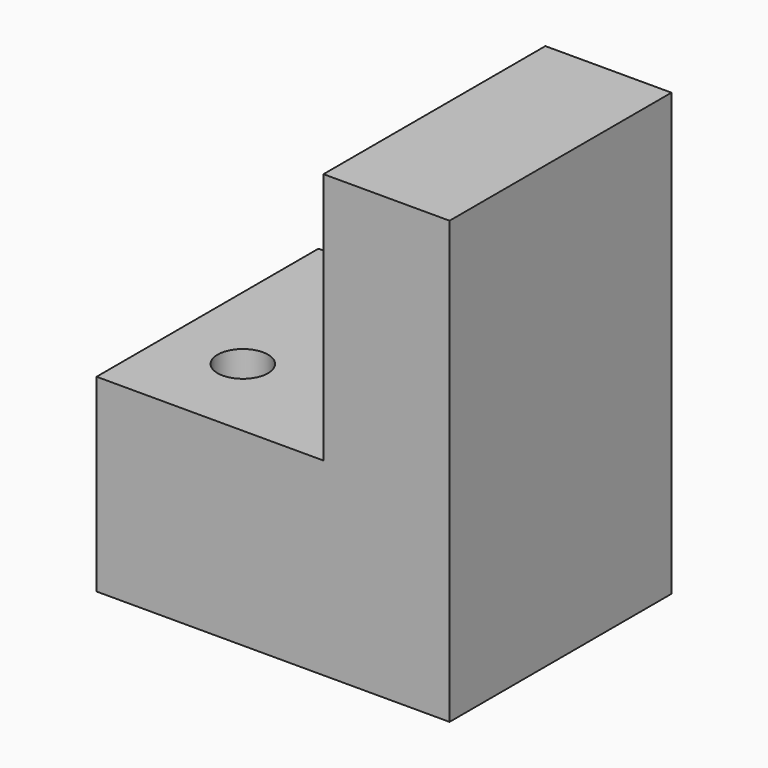
from build123d import *

# Parameters (mm, degrees)
PAD_DEPTH    = 22
SKETCH001_R  = 2
POCKET_DEPTH = 15.001


with BuildPart() as part:
    # Sketch → Pad (new body)
    with BuildSketch(Plane.XZ):
        Polygon((0, 0), (28, 0), (28, 35), (18, 35), (18, 15), (0, 15), align=None)
    extrude(amount=PAD_DEPTH)

    # Sketch001 (on Face5 of Pad) → Pocket (cut, through all)
    with BuildSketch(Plane(origin=(0, 0, 15), x_dir=(-1, 0, 0), z_dir=(0, 0, 1))):
        with Locations((-6, 15)):
            Circle(SKETCH001_R)
    extrude(amount=-POCKET_DEPTH, mode=Mode.SUBTRACT)


solid = part.part
